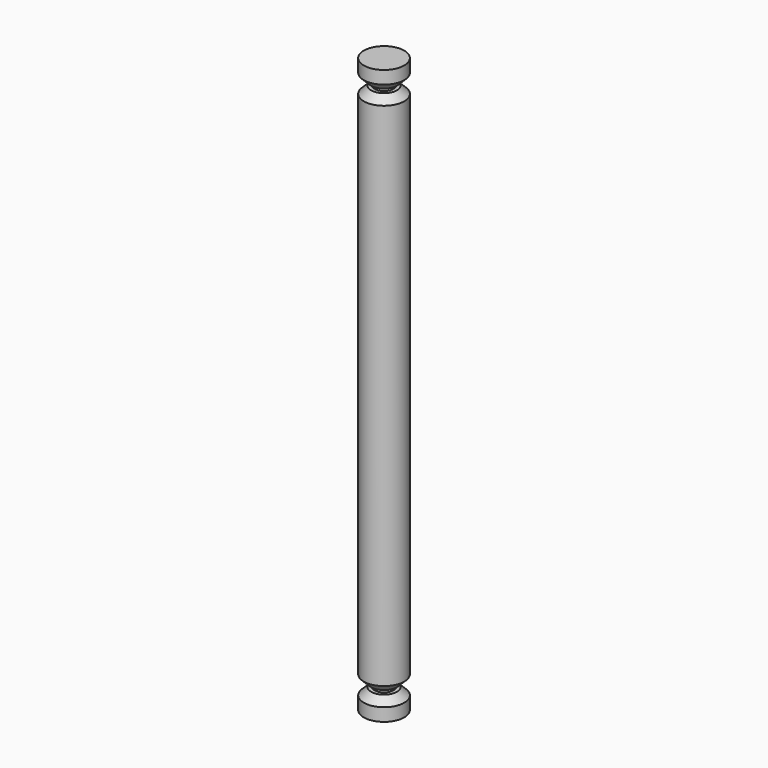
from build123d import *

# Parameters (mm, degrees)
F0_R     = 5
F0_R_2   = 2.3
F1_DEPTH = 5
F2_START = 5
F2_DEPTH = 1
F3_START = 6
F3_DEPTH = 130
F4_START = 136
F4_DEPTH = 1
F5_START = 137
F5_DEPTH = 5
F6_SIZE  = 1.8


with BuildPart() as f1:
    # F0 (on Top) → F1 (new body)
    with BuildSketch(Plane.XY):
        Circle(F0_R)
        Circle(F0_R_2, mode=Mode.SUBTRACT)
        Circle(F0_R_2)
    extrude(amount=F1_DEPTH)

    # F0 (on Top) → F2 (join)
    with BuildSketch(Plane.XY.offset(F2_START)):
        Circle(F0_R_2)
    extrude(amount=F2_DEPTH)

    # F0 (on Top) → F3 (join)
    with BuildSketch(Plane.XY.offset(F3_START)):
        Circle(F0_R)
        Circle(F0_R_2, mode=Mode.SUBTRACT)
        Circle(F0_R_2)
    extrude(amount=F3_DEPTH)

    # F0 (on Top) → F4 (join)
    with BuildSketch(Plane.XY.offset(F4_START)):
        Circle(F0_R_2)
    extrude(amount=F4_DEPTH)

    # F0 (on Top) → F5 (join)
    with BuildSketch(Plane.XY.offset(F5_START)):
        Circle(F0_R)
        Circle(F0_R_2, mode=Mode.SUBTRACT)
        Circle(F0_R_2)
    extrude(amount=F5_DEPTH)

    # F6
    f6_edges = [f1.edges().sort_by_distance(p)[0] for p in [
        (-5, 0, 136),
        (-5, 0, 137),
        (-5, 0, 6),
        (-5, 0, 5),
    ]]
    chamfer(f6_edges, length=F6_SIZE)


solid = f1.part
